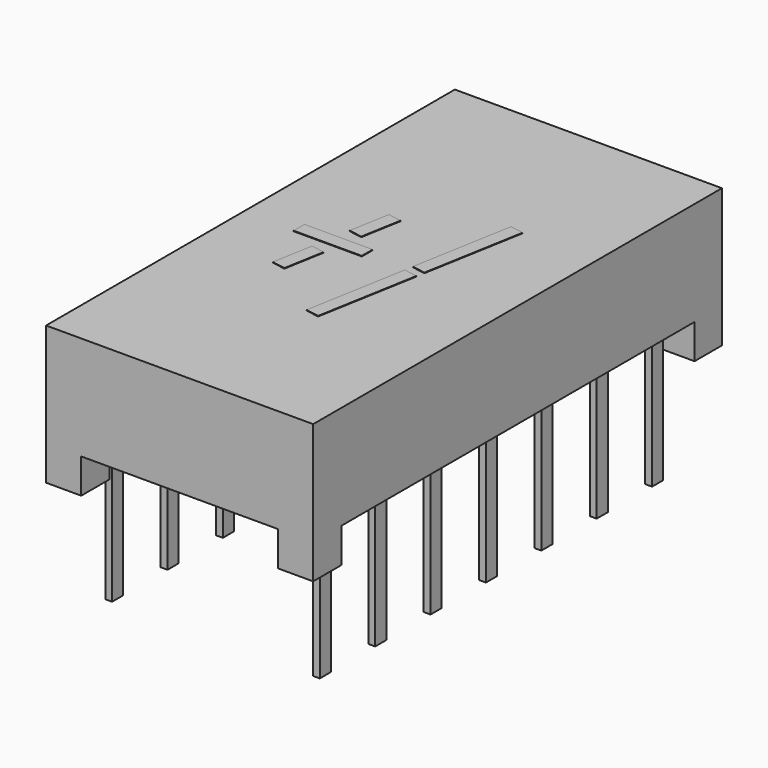
from build123d import *

# Parameters (mm, degrees)
BOX001_W                  = 20
BOX001_H                  = 16.2
BOX001_DEPTH              = 2.54
BOX_W                     = 7.22
BOX_H                     = 22
BOX_DEPTH                 = 2.54
SKETCH_W                  = 9.8
SKETCH_H                  = 18.75
PAD_DEPTH                 = 5.08
BOX003_W                  = 0.25
BOX003_H                  = 1.5
BOX003_DEPTH              = 1.5
BOX003_ROLL_ANGLE         = 45
BOX002_W                  = 0.25
BOX002_H                  = 0.51
BOX002_DEPTH              = 6
BOX005_W                  = 0.25
BOX005_H                  = 1.5
BOX005_DEPTH              = 1.5
BOX005_ROLL_ANGLE         = 45
BOX004_W                  = 0.25
BOX004_H                  = 0.51
BOX004_DEPTH              = 6
BOX007_W                  = 0.25
BOX007_H                  = 1.5
BOX007_DEPTH              = 1.5
BOX007_ROLL_ANGLE         = 45
BOX006_W                  = 0.25
BOX006_H                  = 0.51
BOX006_DEPTH              = 6
BOX009_W                  = 0.25
BOX009_H                  = 1.5
BOX009_DEPTH              = 1.5
BOX009_ROLL_ANGLE         = 45
BOX008_W                  = 0.25
BOX008_H                  = 0.51
BOX008_DEPTH              = 6
BOX011_W                  = 0.25
BOX011_H                  = 1.5
BOX011_DEPTH              = 1.5
BOX011_ROLL_ANGLE         = 45
BOX010_W                  = 0.25
BOX010_H                  = 0.51
BOX010_DEPTH              = 6
BOX013_W                  = 0.25
BOX013_H                  = 1.5
BOX013_DEPTH              = 1.5
BOX013_ROLL_ANGLE         = 45
BOX012_W                  = 0.25
BOX012_H                  = 0.51
BOX012_DEPTH              = 6
BOX015_W                  = 0.25
BOX015_H                  = 1.5
BOX015_DEPTH              = 1.5
BOX015_ROLL_ANGLE         = 45
BOX014_W                  = 0.25
BOX014_H                  = 0.51
BOX014_DEPTH              = 6
BOX017_W                  = 0.25
BOX017_H                  = 1.5
BOX017_DEPTH              = 1.5
BOX017_ROLL_ANGLE         = 45
BOX016_W                  = 0.25
BOX016_H                  = 0.51
BOX016_DEPTH              = 6
BOX019_W                  = 0.25
BOX019_H                  = 1.5
BOX019_DEPTH              = 1.5
BOX019_ROLL_ANGLE         = 45
BOX018_W                  = 0.25
BOX018_H                  = 0.51
BOX018_DEPTH              = 6
BOX021_W                  = 0.25
BOX021_H                  = 1.5
BOX021_DEPTH              = 1.5
BOX021_ROLL_ANGLE         = 45
BOX020_W                  = 0.25
BOX020_H                  = 0.51
BOX020_DEPTH              = 6
BOX023_W                  = 0.25
BOX023_H                  = 1.5
BOX023_DEPTH              = 1.5
BOX023_ROLL_ANGLE         = 45
BOX022_W                  = 0.25
BOX022_H                  = 0.51
BOX022_DEPTH              = 6
BOX025_W                  = 0.25
BOX025_H                  = 1.5
BOX025_DEPTH              = 1.5
BOX025_ROLL_ANGLE         = 45
BOX024_W                  = 0.25
BOX024_H                  = 0.51
BOX024_DEPTH              = 6
BOX027_W                  = 0.25
BOX027_H                  = 1.5
BOX027_DEPTH              = 1.5
BOX027_ROLL_ANGLE         = 45
BOX026_W                  = 0.25
BOX026_H                  = 0.51
BOX026_DEPTH              = 6
BOX029_W                  = 0.25
BOX029_H                  = 1.5
BOX029_DEPTH              = 1.5
BOX029_ROLL_ANGLE         = 45
BOX028_W                  = 0.25
BOX028_H                  = 0.51
BOX028_DEPTH              = 6
BOX030_W                  = 0.5
BOX030_H                  = 3.75
BOX030_DEPTH              = 0.3
BOX030_PLACEMENT_ANGLE    = -10
BOX034_W                  = 0.5
BOX034_H                  = 1.5
BOX034_DEPTH              = 0.3
BOX034_PLACEMENT_ANGLE    = -10
BOX031_W                  = 0.5
BOX031_H                  = 3.75
BOX031_DEPTH              = 0.3
BOX031_PLACEMENT_ANGLE    = -10
BOX033_W                  = 2.5
BOX033_H                  = 0.5
BOX033_DEPTH              = 0.3
BOX032_W                  = 0.5
BOX032_H                  = 1.5
BOX032_DEPTH              = 0.3
BOX032_PLACEMENT_ANGLE    = -10
FUSION014_PLACEMENT_ANGLE = 180


with BuildPart() as kub001:
    # Box001 → Box001 (new body)
    with BuildSketch(Plane(origin=(-6, -15.7, -1.27), x_dir=(1, 0, 0), z_dir=(0, 0, 1))):
        with Locations((10, 8.1)):
            Rectangle(BOX001_W, BOX001_H)
    extrude(amount=BOX001_DEPTH)


with BuildPart() as kub:
    # Box → Box (new body)
    with BuildSketch(Plane(origin=(0.2, -18, -1.27), x_dir=(1, 0, 0), z_dir=(0, 0, 1))):
        with Locations((3.61, 11)):
            Rectangle(BOX_W, BOX_H)
    extrude(amount=BOX_DEPTH)


with BuildPart() as cut001:
    # Sketch → Pad (new body)
    with BuildSketch(Plane.XY):
        with Locations((3.81, -7.62)):
            Rectangle(SKETCH_W, SKETCH_H)
    extrude(amount=PAD_DEPTH)

    # Cut: cut Kub
    add(kub.part, mode=Mode.SUBTRACT)

    # Cut001: cut Kub001
    add(kub001.part, mode=Mode.SUBTRACT)


with BuildPart() as kub003:
    # Box003 → Box003 (new body)
    with BuildSketch(Plane.XY):
        with Locations((0.125, 0.75)):
            Rectangle(BOX003_W, BOX003_H)
    extrude(amount=BOX003_DEPTH)


with BuildPart() as kub003_1:
    # Box003 roll: moved
    add(kub003.part.rotate(Axis((0, 0, 0), (1, 0, 0)), BOX003_ROLL_ANGLE))


with BuildPart() as kub003_2:
    # Box003 placement: moved
    add(kub003_1.part.moved(Location((-0.12, 0, 0.3))))


with BuildPart() as leg001:
    # Box002 → Box002 (new body)
    with BuildSketch(Plane(origin=(-0.12, -0.2505, -4.06), x_dir=(1, 0, 0), z_dir=(0, 0, 1))):
        with Locations((0.125, 0.255)):
            Rectangle(BOX002_W, BOX002_H)
    extrude(amount=BOX002_DEPTH)

    # Fusion: union Kub003
    add(kub003_2.part)


with BuildPart() as kub005:
    # Box005 → Box005 (new body)
    with BuildSketch(Plane.XY):
        with Locations((0.125, 0.75)):
            Rectangle(BOX005_W, BOX005_H)
    extrude(amount=BOX005_DEPTH)


with BuildPart() as kub005_1:
    # Box005 roll: moved
    add(kub005.part.rotate(Axis((0, 0, 0), (1, 0, 0)), BOX005_ROLL_ANGLE))


with BuildPart() as kub005_2:
    # Box005 placement: moved
    add(kub005_1.part.moved(Location((-0.12, 0, 0.3))))


with BuildPart() as leg002:
    # Box004 → Box004 (new body)
    with BuildSketch(Plane(origin=(-0.12, -0.2505, -4.06), x_dir=(1, 0, 0), z_dir=(0, 0, 1))):
        with Locations((0.125, 0.255)):
            Rectangle(BOX004_W, BOX004_H)
    extrude(amount=BOX004_DEPTH)

    # Fusion001: union Kub005
    add(kub005_2.part)


with BuildPart() as leg002_1:
    # Fusion001 placement: moved
    add(leg002.part.moved(Location((0, -2.54, 0))))


with BuildPart() as kub007:
    # Box007 → Box007 (new body)
    with BuildSketch(Plane.XY):
        with Locations((0.125, 0.75)):
            Rectangle(BOX007_W, BOX007_H)
    extrude(amount=BOX007_DEPTH)


with BuildPart() as kub007_1:
    # Box007 roll: moved
    add(kub007.part.rotate(Axis((0, 0, 0), (1, 0, 0)), BOX007_ROLL_ANGLE))


with BuildPart() as kub007_2:
    # Box007 placement: moved
    add(kub007_1.part.moved(Location((-0.12, 0, 0.3))))


with BuildPart() as leg003:
    # Box006 → Box006 (new body)
    with BuildSketch(Plane(origin=(-0.12, -0.2505, -4.06), x_dir=(1, 0, 0), z_dir=(0, 0, 1))):
        with Locations((0.125, 0.255)):
            Rectangle(BOX006_W, BOX006_H)
    extrude(amount=BOX006_DEPTH)

    # Fusion002: union Kub007
    add(kub007_2.part)


with BuildPart() as leg003_1:
    # Fusion002 placement: moved
    add(leg003.part.moved(Location((0, -5.08, 0))))


with BuildPart() as kub009:
    # Box009 → Box009 (new body)
    with BuildSketch(Plane.XY):
        with Locations((0.125, 0.75)):
            Rectangle(BOX009_W, BOX009_H)
    extrude(amount=BOX009_DEPTH)


with BuildPart() as kub009_1:
    # Box009 roll: moved
    add(kub009.part.rotate(Axis((0, 0, 0), (1, 0, 0)), BOX009_ROLL_ANGLE))


with BuildPart() as kub009_2:
    # Box009 placement: moved
    add(kub009_1.part.moved(Location((-0.12, 0, 0.3))))


with BuildPart() as leg004:
    # Box008 → Box008 (new body)
    with BuildSketch(Plane(origin=(-0.12, -0.2505, -4.06), x_dir=(1, 0, 0), z_dir=(0, 0, 1))):
        with Locations((0.125, 0.255)):
            Rectangle(BOX008_W, BOX008_H)
    extrude(amount=BOX008_DEPTH)

    # Fusion003: union Kub009
    add(kub009_2.part)


with BuildPart() as leg004_1:
    # Fusion003 placement: moved
    add(leg004.part.moved(Location((0, -7.62, 0))))


with BuildPart() as kub011:
    # Box011 → Box011 (new body)
    with BuildSketch(Plane.XY):
        with Locations((0.125, 0.75)):
            Rectangle(BOX011_W, BOX011_H)
    extrude(amount=BOX011_DEPTH)


with BuildPart() as kub011_1:
    # Box011 roll: moved
    add(kub011.part.rotate(Axis((0, 0, 0), (1, 0, 0)), BOX011_ROLL_ANGLE))


with BuildPart() as kub011_2:
    # Box011 placement: moved
    add(kub011_1.part.moved(Location((-0.12, 0, 0.3))))


with BuildPart() as leg005:
    # Box010 → Box010 (new body)
    with BuildSketch(Plane(origin=(-0.12, -0.2505, -4.06), x_dir=(1, 0, 0), z_dir=(0, 0, 1))):
        with Locations((0.125, 0.255)):
            Rectangle(BOX010_W, BOX010_H)
    extrude(amount=BOX010_DEPTH)

    # Fusion004: union Kub011
    add(kub011_2.part)


with BuildPart() as leg005_1:
    # Fusion004 placement: moved
    add(leg005.part.moved(Location((0, -10.16, 0))))


with BuildPart() as kub013:
    # Box013 → Box013 (new body)
    with BuildSketch(Plane.XY):
        with Locations((0.125, 0.75)):
            Rectangle(BOX013_W, BOX013_H)
    extrude(amount=BOX013_DEPTH)


with BuildPart() as kub013_1:
    # Box013 roll: moved
    add(kub013.part.rotate(Axis((0, 0, 0), (1, 0, 0)), BOX013_ROLL_ANGLE))


with BuildPart() as kub013_2:
    # Box013 placement: moved
    add(kub013_1.part.moved(Location((-0.12, 0, 0.3))))


with BuildPart() as leg006:
    # Box012 → Box012 (new body)
    with BuildSketch(Plane(origin=(-0.12, -0.2505, -4.06), x_dir=(1, 0, 0), z_dir=(0, 0, 1))):
        with Locations((0.125, 0.255)):
            Rectangle(BOX012_W, BOX012_H)
    extrude(amount=BOX012_DEPTH)

    # Fusion005: union Kub013
    add(kub013_2.part)


with BuildPart() as leg006_1:
    # Fusion005 placement: moved
    add(leg006.part.moved(Location((0, -12.7, 0))))


with BuildPart() as kub015:
    # Box015 → Box015 (new body)
    with BuildSketch(Plane.XY):
        with Locations((0.125, 0.75)):
            Rectangle(BOX015_W, BOX015_H)
    extrude(amount=BOX015_DEPTH)


with BuildPart() as kub015_1:
    # Box015 roll: moved
    add(kub015.part.rotate(Axis((0, 0, 0), (1, 0, 0)), BOX015_ROLL_ANGLE))


with BuildPart() as kub015_2:
    # Box015 placement: moved
    add(kub015_1.part.moved(Location((-0.12, 0, 0.3))))


with BuildPart() as leg007:
    # Box014 → Box014 (new body)
    with BuildSketch(Plane(origin=(-0.12, -0.2505, -4.06), x_dir=(1, 0, 0), z_dir=(0, 0, 1))):
        with Locations((0.125, 0.255)):
            Rectangle(BOX014_W, BOX014_H)
    extrude(amount=BOX014_DEPTH)

    # Fusion006: union Kub015
    add(kub015_2.part)


with BuildPart() as leg007_1:
    # Fusion006 placement: moved
    add(leg007.part.moved(Location((0, -15.24, 0))))


with BuildPart() as kub017:
    # Box017 → Box017 (new body)
    with BuildSketch(Plane.XY):
        with Locations((0.125, 0.75)):
            Rectangle(BOX017_W, BOX017_H)
    extrude(amount=BOX017_DEPTH)


with BuildPart() as kub017_1:
    # Box017 roll: moved
    add(kub017.part.rotate(Axis((0, 0, 0), (1, 0, 0)), BOX017_ROLL_ANGLE))


with BuildPart() as kub017_2:
    # Box017 placement: moved
    add(kub017_1.part.moved(Location((-0.12, 0, 0.3))))


with BuildPart() as leg008:
    # Box016 → Box016 (new body)
    with BuildSketch(Plane(origin=(-0.12, -0.2505, -4.06), x_dir=(1, 0, 0), z_dir=(0, 0, 1))):
        with Locations((0.125, 0.255)):
            Rectangle(BOX016_W, BOX016_H)
    extrude(amount=BOX016_DEPTH)

    # Fusion007: union Kub017
    add(kub017_2.part)


with BuildPart() as leg008_1:
    # Fusion007 placement: moved
    add(leg008.part.moved(Location((7.62, -15.24, 0))))


with BuildPart() as kub019:
    # Box019 → Box019 (new body)
    with BuildSketch(Plane.XY):
        with Locations((0.125, 0.75)):
            Rectangle(BOX019_W, BOX019_H)
    extrude(amount=BOX019_DEPTH)


with BuildPart() as kub019_1:
    # Box019 roll: moved
    add(kub019.part.rotate(Axis((0, 0, 0), (1, 0, 0)), BOX019_ROLL_ANGLE))


with BuildPart() as kub019_2:
    # Box019 placement: moved
    add(kub019_1.part.moved(Location((-0.12, 0, 0.3))))


with BuildPart() as leg009:
    # Box018 → Box018 (new body)
    with BuildSketch(Plane(origin=(-0.12, -0.2505, -4.06), x_dir=(1, 0, 0), z_dir=(0, 0, 1))):
        with Locations((0.125, 0.255)):
            Rectangle(BOX018_W, BOX018_H)
    extrude(amount=BOX018_DEPTH)

    # Fusion008: union Kub019
    add(kub019_2.part)


with BuildPart() as leg009_1:
    # Fusion008 placement: moved
    add(leg009.part.moved(Location((7.62, -12.7, 0))))


with BuildPart() as kub021:
    # Box021 → Box021 (new body)
    with BuildSketch(Plane.XY):
        with Locations((0.125, 0.75)):
            Rectangle(BOX021_W, BOX021_H)
    extrude(amount=BOX021_DEPTH)


with BuildPart() as kub021_1:
    # Box021 roll: moved
    add(kub021.part.rotate(Axis((0, 0, 0), (1, 0, 0)), BOX021_ROLL_ANGLE))


with BuildPart() as kub021_2:
    # Box021 placement: moved
    add(kub021_1.part.moved(Location((-0.12, 0, 0.3))))


with BuildPart() as leg010:
    # Box020 → Box020 (new body)
    with BuildSketch(Plane(origin=(-0.12, -0.2505, -4.06), x_dir=(1, 0, 0), z_dir=(0, 0, 1))):
        with Locations((0.125, 0.255)):
            Rectangle(BOX020_W, BOX020_H)
    extrude(amount=BOX020_DEPTH)

    # Fusion009: union Kub021
    add(kub021_2.part)


with BuildPart() as leg010_1:
    # Fusion009 placement: moved
    add(leg010.part.moved(Location((7.62, -10.16, 0))))


with BuildPart() as kub023:
    # Box023 → Box023 (new body)
    with BuildSketch(Plane.XY):
        with Locations((0.125, 0.75)):
            Rectangle(BOX023_W, BOX023_H)
    extrude(amount=BOX023_DEPTH)


with BuildPart() as kub023_1:
    # Box023 roll: moved
    add(kub023.part.rotate(Axis((0, 0, 0), (1, 0, 0)), BOX023_ROLL_ANGLE))


with BuildPart() as kub023_2:
    # Box023 placement: moved
    add(kub023_1.part.moved(Location((-0.12, 0, 0.3))))


with BuildPart() as leg011:
    # Box022 → Box022 (new body)
    with BuildSketch(Plane(origin=(-0.12, -0.2505, -4.06), x_dir=(1, 0, 0), z_dir=(0, 0, 1))):
        with Locations((0.125, 0.255)):
            Rectangle(BOX022_W, BOX022_H)
    extrude(amount=BOX022_DEPTH)

    # Fusion010: union Kub023
    add(kub023_2.part)


with BuildPart() as leg011_1:
    # Fusion010 placement: moved
    add(leg011.part.moved(Location((7.62, -7.62, 0))))


with BuildPart() as kub025:
    # Box025 → Box025 (new body)
    with BuildSketch(Plane.XY):
        with Locations((0.125, 0.75)):
            Rectangle(BOX025_W, BOX025_H)
    extrude(amount=BOX025_DEPTH)


with BuildPart() as kub025_1:
    # Box025 roll: moved
    add(kub025.part.rotate(Axis((0, 0, 0), (1, 0, 0)), BOX025_ROLL_ANGLE))


with BuildPart() as kub025_2:
    # Box025 placement: moved
    add(kub025_1.part.moved(Location((-0.12, 0, 0.3))))


with BuildPart() as leg012:
    # Box024 → Box024 (new body)
    with BuildSketch(Plane(origin=(-0.12, -0.2505, -4.06), x_dir=(1, 0, 0), z_dir=(0, 0, 1))):
        with Locations((0.125, 0.255)):
            Rectangle(BOX024_W, BOX024_H)
    extrude(amount=BOX024_DEPTH)

    # Fusion011: union Kub025
    add(kub025_2.part)


with BuildPart() as leg012_1:
    # Fusion011 placement: moved
    add(leg012.part.moved(Location((7.62, -5.08, 0))))


with BuildPart() as kub027:
    # Box027 → Box027 (new body)
    with BuildSketch(Plane.XY):
        with Locations((0.125, 0.75)):
            Rectangle(BOX027_W, BOX027_H)
    extrude(amount=BOX027_DEPTH)


with BuildPart() as kub027_1:
    # Box027 roll: moved
    add(kub027.part.rotate(Axis((0, 0, 0), (1, 0, 0)), BOX027_ROLL_ANGLE))


with BuildPart() as kub027_2:
    # Box027 placement: moved
    add(kub027_1.part.moved(Location((-0.12, 0, 0.3))))


with BuildPart() as leg013:
    # Box026 → Box026 (new body)
    with BuildSketch(Plane(origin=(-0.12, -0.2505, -4.06), x_dir=(1, 0, 0), z_dir=(0, 0, 1))):
        with Locations((0.125, 0.255)):
            Rectangle(BOX026_W, BOX026_H)
    extrude(amount=BOX026_DEPTH)

    # Fusion012: union Kub027
    add(kub027_2.part)


with BuildPart() as leg013_1:
    # Fusion012 placement: moved
    add(leg013.part.moved(Location((7.62, -2.54, 0))))


with BuildPart() as kub029:
    # Box029 → Box029 (new body)
    with BuildSketch(Plane.XY):
        with Locations((0.125, 0.75)):
            Rectangle(BOX029_W, BOX029_H)
    extrude(amount=BOX029_DEPTH)


with BuildPart() as kub029_1:
    # Box029 roll: moved
    add(kub029.part.rotate(Axis((0, 0, 0), (1, 0, 0)), BOX029_ROLL_ANGLE))


with BuildPart() as kub029_2:
    # Box029 placement: moved
    add(kub029_1.part.moved(Location((-0.12, 0, 0.3))))


with BuildPart() as leg014:
    # Box028 → Box028 (new body)
    with BuildSketch(Plane(origin=(-0.12, -0.2505, -4.06), x_dir=(1, 0, 0), z_dir=(0, 0, 1))):
        with Locations((0.125, 0.255)):
            Rectangle(BOX028_W, BOX028_H)
    extrude(amount=BOX028_DEPTH)

    # Fusion013: union Kub029
    add(kub029_2.part)


with BuildPart() as leg014_1:
    # Fusion013 placement: moved
    add(leg014.part.moved(Location((7.62, 0, 0))))


with BuildPart() as kub030:
    # Box030 → Box030 (new body)
    with BuildSketch(Plane.XY):
        with Locations((0.25, 1.875)):
            Rectangle(BOX030_W, BOX030_H)
    extrude(amount=BOX030_DEPTH)


with BuildPart() as kub030_1:
    # Box030 placement: moved
    add(kub030.part.moved(Location((1.7, -7, 7))).rotate(Axis((1.7, -7, 7), (0, 0, 1)), BOX030_PLACEMENT_ANGLE))


with BuildPart() as kub034:
    # Box034 → Box034 (new body)
    with BuildSketch(Plane.XY):
        with Locations((0.25, 0.75)):
            Rectangle(BOX034_W, BOX034_H)
    extrude(amount=BOX034_DEPTH)


with BuildPart() as kub034_1:
    # Box034 placement: moved
    add(kub034.part.moved(Location((4.2, -9.4, 7))).rotate(Axis((4.2, -9.4, 7), (0, 0, 1)), BOX034_PLACEMENT_ANGLE))


with BuildPart() as kub031:
    # Box031 → Box031 (new body)
    with BuildSketch(Plane.XY):
        with Locations((0.25, 1.875)):
            Rectangle(BOX031_W, BOX031_H)
    extrude(amount=BOX031_DEPTH)


with BuildPart() as kub031_1:
    # Box031 placement: moved
    add(kub031.part.moved(Location((1, -11, 7))).rotate(Axis((1, -11, 7), (0, 0, 1)), BOX031_PLACEMENT_ANGLE))


with BuildPart() as kub033:
    # Box033 → Box033 (new body)
    with BuildSketch(Plane(origin=(3.7, -7.5, 7), x_dir=(1, 0, 0), z_dir=(0, 0, 1))):
        with Locations((1.25, 0.25)):
            Rectangle(BOX033_W, BOX033_H)
    extrude(amount=BOX033_DEPTH)


with BuildPart() as digit001:
    # Box032 → Box032 (new body)
    with BuildSketch(Plane.XY):
        with Locations((0.25, 0.75)):
            Rectangle(BOX032_W, BOX032_H)
    extrude(amount=BOX032_DEPTH)


with BuildPart() as digit001_1:
    # Box032 placement: moved
    add(digit001.part.moved(Location((4.7, -6.5, 7))).rotate(Axis((4.7, -6.5, 7), (0, 0, 1)), BOX032_PLACEMENT_ANGLE))

    # Fusion014: union Kub030, Kub034, Kub031, Kub033
    add(kub030_1.part)
    add(kub034_1.part)
    add(kub031_1.part)
    add(kub033.part)


with BuildPart() as digit001_2:
    # Fusion014 placement: moved
    add(digit001_1.part.moved(Location((7, -15, -2.2))).rotate(Axis((7, -15, -2.2), (0, 0, 1)), FUSION014_PLACEMENT_ANGLE))


solid = Compound([cut001.part, leg001.part, leg002_1.part, leg003_1.part, leg004_1.part, leg005_1.part, leg006_1.part, leg007_1.part, leg008_1.part, leg009_1.part, leg010_1.part, leg011_1.part, leg012_1.part, leg013_1.part, leg014_1.part, digit001_2.part])
